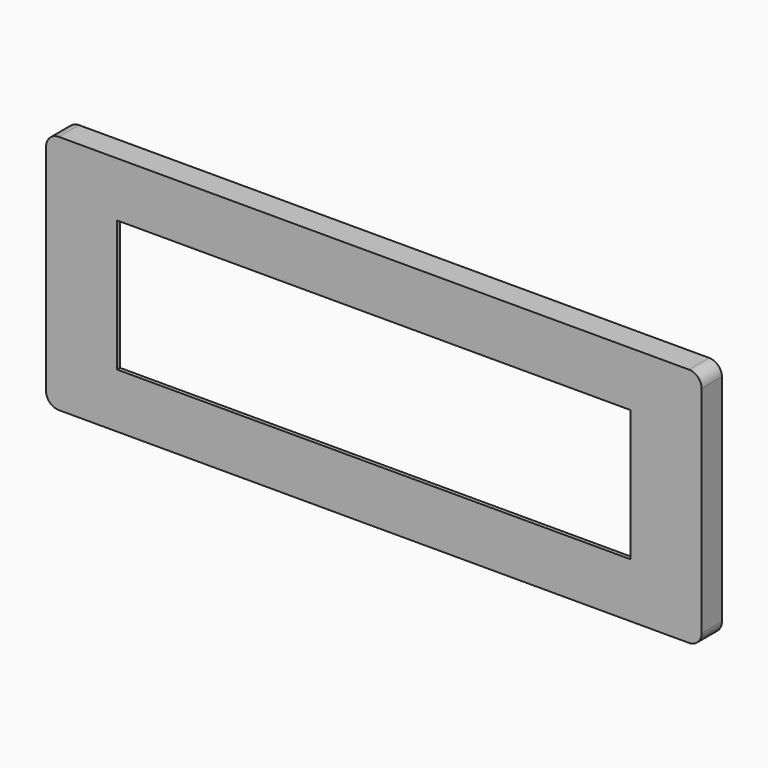
from build123d import *

# Parameters (mm, degrees)
F0_W     = 103.410944
F0_H     = 37.954018
F0_W_2   = 81.041918
F0_H_2   = 20.718862
F1_DEPTH = 4
F2_W     = 91.309666
F2_H     = 28.419676
F2_W_2   = 81.041918
F2_H_2   = 20.718862
F3_DEPTH = 3.4
F4_R     = 2


with BuildPart() as f1:
    # F0 (on Front) → F1 (new body)
    with BuildSketch(Plane.XZ):
        Rectangle(F0_W, F0_H)
        Rectangle(F0_W_2, F0_H_2, mode=Mode.SUBTRACT)
    extrude(amount=F1_DEPTH)

    # F2 (on face) → F3 (cut)
    with BuildSketch(Plane(origin=(0, 0, 0), x_dir=(-1, 0, 0), z_dir=(0, 1, 0))):
        Rectangle(F2_W, F2_H)
        Rectangle(F2_W_2, F2_H_2, mode=Mode.SUBTRACT)
    extrude(amount=-F3_DEPTH, mode=Mode.SUBTRACT)

    # F4
    f4_edges = [f1.edges().sort_by_distance(p)[0] for p in [
        (-51.705472, -2, 18.977009),
        (51.705472, -2, 18.977009),
        (51.705472, -2, -18.977009),
        (-51.705472, -2, -18.977009),
    ]]
    fillet(f4_edges, radius=F4_R)


solid = f1.part
